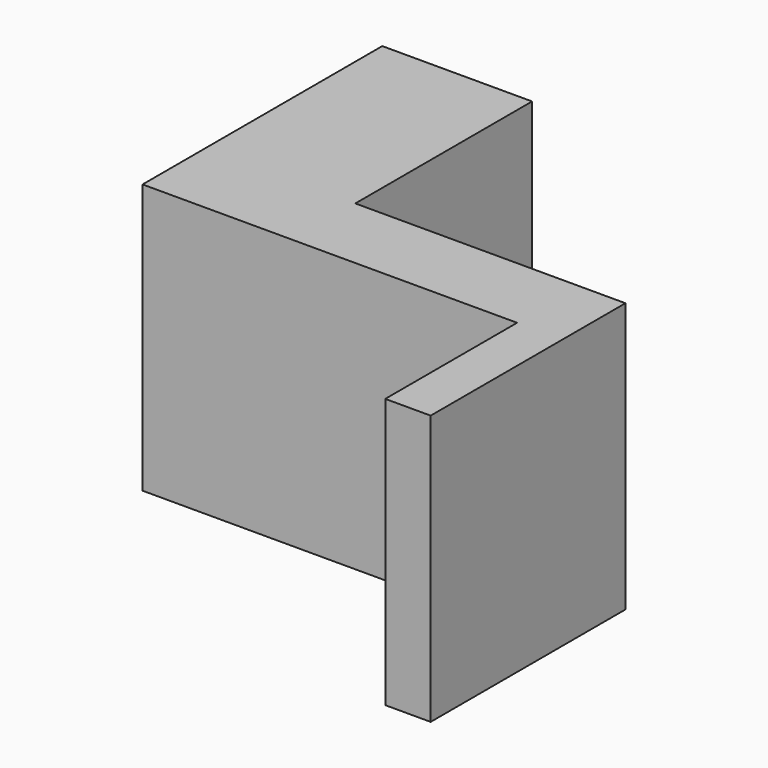
from build123d import *

# Parameters (mm, degrees)
F1_DEPTH = 9
F2_R     = 1
F3_DEPTH = 25


with BuildPart() as f1:
    # F0 (on Top) → F1 (new body)
    with BuildSketch(Plane.XY):
        Polygon((5, 7.373742), (0, 7.373742), (0, -2.626258), (12.5, -2.626258), (12.5, -8.126258), (14.015152, -8.126258), (14.015152, -2.626258), (14.015152, 0), (5, 0), align=None)
    extrude(amount=F1_DEPTH)

    # F2 (on face) → F3 (cut)
    with BuildSketch(Plane(origin=(0, 0, 0), x_dir=(0, -1, 0), z_dir=(-1, 0, 0))):
        with Locations((-1.873742, 4.469738)):
            Circle(F2_R)
    extrude(amount=-F3_DEPTH, mode=Mode.SUBTRACT)


solid = f1.part
